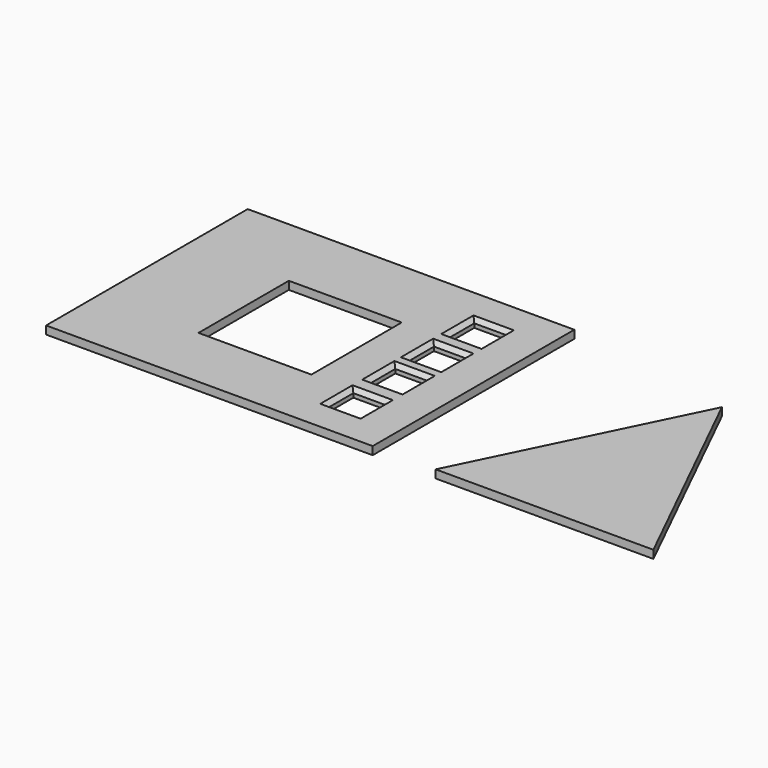
from build123d import *

# Parameters (mm, degrees)
EXTRUDE006_DEPTH = 2
WIRE002_W        = 8
WIRE002_H        = 8
EXTRUDE002_DEPTH = 2
WIRE003_W        = 8
WIRE003_H        = 8
EXTRUDE003_DEPTH = 2
WIRE004_W        = 8
WIRE004_H        = 8
EXTRUDE004_DEPTH = 2
WIRE005_W        = 8
WIRE005_H        = 8
EXTRUDE005_DEPTH = 2
WIRE001_W        = 28
WIRE001_H        = 28
EXTRUDE001_DEPTH = 2
WIRE_W           = 62.5
WIRE_H           = 81
EXTRUDE_DEPTH    = 2
CHAMFER_SIZE     = 1


with BuildPart() as extrude006:
    # Wire006 → Extrude006 (new body)
    with BuildSketch(Plane(origin=(117.611606, 25.5, 0), x_dir=(0, 1, 0), z_dir=(0, 0, 1))):
        Polygon((27.5, 0), (-27.5, 27), (-27.5, -27), align=None)
    extrude(amount=EXTRUDE006_DEPTH)


with BuildPart() as extrude002:
    # Wire002 → Extrude002 (new body)
    with BuildSketch(Plane(origin=(61, 10.5, 0), x_dir=(0, -1, 0), z_dir=(0, 0, -1))):
        Rectangle(WIRE002_W, WIRE002_H)
    extrude(amount=-EXTRUDE002_DEPTH)


with BuildPart() as extrude003:
    # Wire003 → Extrude003 (new body)
    with BuildSketch(Plane(origin=(61, 23.5, 0), x_dir=(0, -1, 0), z_dir=(0, 0, -1))):
        Rectangle(WIRE003_W, WIRE003_H)
    extrude(amount=-EXTRUDE003_DEPTH)


with BuildPart() as extrude004:
    # Wire004 → Extrude004 (new body)
    with BuildSketch(Plane(origin=(61, 35.5, 0), x_dir=(0, -1, 0), z_dir=(0, 0, -1))):
        Rectangle(WIRE004_W, WIRE004_H)
    extrude(amount=-EXTRUDE004_DEPTH)


with BuildPart() as extrude005:
    # Wire005 → Extrude005 (new body)
    with BuildSketch(Plane(origin=(61, 48, 0), x_dir=(0, -1, 0), z_dir=(0, 0, -1))):
        Rectangle(WIRE005_W, WIRE005_H)
    extrude(amount=-EXTRUDE005_DEPTH)


with BuildPart() as fusion:
    # Wire001 → Extrude001 (new body)
    with BuildSketch(Plane(origin=(33, 28, 0), x_dir=(0, -1, 0), z_dir=(0, 0, -1))):
        Rectangle(WIRE001_W, WIRE001_H)
    extrude(amount=-EXTRUDE001_DEPTH)

    # Fusion: union Extrude002, Extrude003, Extrude004, Extrude005
    add(extrude002.part)
    add(extrude003.part)
    add(extrude004.part)
    add(extrude005.part)


with BuildPart() as chamfer_body:
    # Wire → Extrude (new body)
    with BuildSketch(Plane(origin=(34.5, 29.25, 0), x_dir=(0, -1, 0), z_dir=(0, 0, -1))):
        Rectangle(WIRE_W, WIRE_H)
    extrude(amount=-EXTRUDE_DEPTH)

    # Cut: cut Fusion
    add(fusion.part, mode=Mode.SUBTRACT)

    # Chamfer
    chamfer_edges = [chamfer_body.edges().sort_by_distance(p)[0] for p in [
        (61, 27.5, 2),
        (57, 23.5, 2),
        (61, 19.5, 2),
        (65, 23.5, 2),
        (61, 39.5, 2),
        (57, 35.5, 2),
        (61, 31.5, 2),
        (65, 35.5, 2),
        (61, 52, 2),
        (57, 48, 2),
        (61, 44, 2),
        (65, 48, 2),
        (61, 14.5, 2),
        (57, 10.5, 2),
        (61, 6.5, 2),
        (65, 10.5, 2),
    ]]
    chamfer(chamfer_edges, length=CHAMFER_SIZE)


solid = Compound([extrude006.part, chamfer_body.part])
